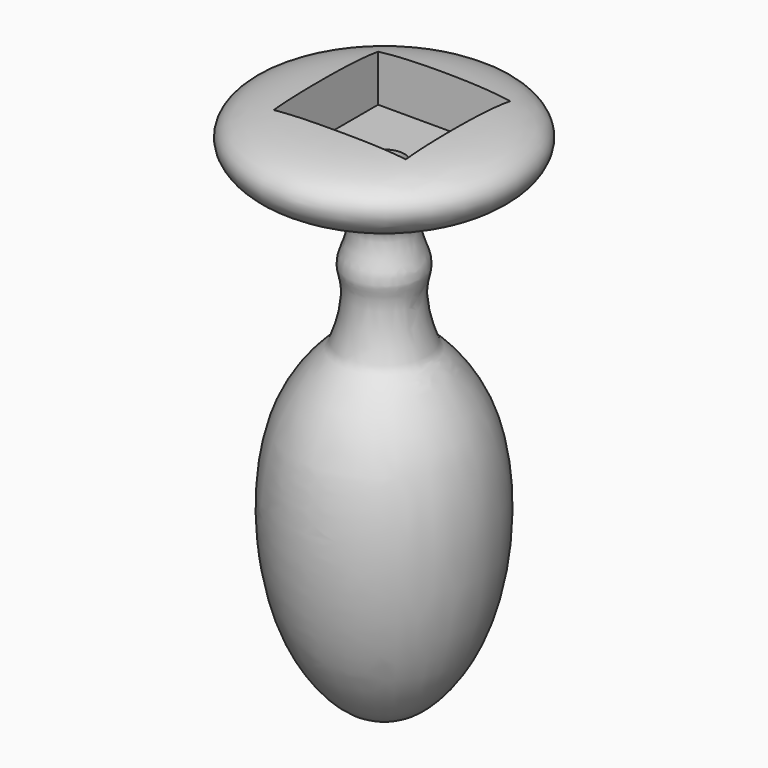
from build123d import *

# Parameters (mm, degrees)
F3_W     = 32.0855062455
F3_H     = 31.694107689
F4_DEPTH = 18.5
F5_R     = 5
F6_DEPTH = 172.9


with BuildPart() as f1:
    # F0 (on Front) → F1 (revolve)
    with BuildSketch(Plane.XZ):
        with BuildLine():
            Line((0, 76.1397406459), (0, 74.7660771012))
            Line((0, 74.7660771012), (0, -48.4679415822))
            add(Edge.make_bspline(
                [(0, -48.4679415822), (1.08196968, -50.0808969928), (4.3605942772, -54.9685342168), (24.6603145313, -36.419058951), (26.6652045018, 10.6134220282), (11.7971467763, 25.3826350696), (10.3892143692, 26.3787310574), (6.7118340158, 38.435006696), (10.6774127447, 44.1303949518), (1.721249837, 57.4634062624), (32.0136776372, 62.2713275471), (34.3508236047, 79.0017212819), (2.5772251559, 78.0817526941), (0, 76.1397406459)],
                knots=[0, 0, 0, 0, 0.0529922354, 0.1605790343, 0.3211416148, 0.4177492714, 0.4486271125, 0.5267484863, 0.5879608779, 0.6605030222, 0.7764602024, 0.8454861286, 0.9727080848, 0.9727080848, 0.9727080848, 0.9727080848], degree=3))
        make_face()
    revolve(axis=Axis((0, 0, 15.4695112284), (0, 0, -1)))

    # F3 (on offset) → F4 (cut)
    with BuildSketch(Plane.XY.offset(83.8)):
        with Locations((0.558228232, 1.689506229)):
            Rectangle(F3_W, F3_H)
    extrude(amount=-F4_DEPTH, mode=Mode.SUBTRACT)

    # F5 (on offset) → F6 (cut)
    with BuildSketch(Plane.XY.offset(83.8)):
        Circle(F5_R)
    extrude(amount=-F6_DEPTH, mode=Mode.SUBTRACT)


solid = f1.part
